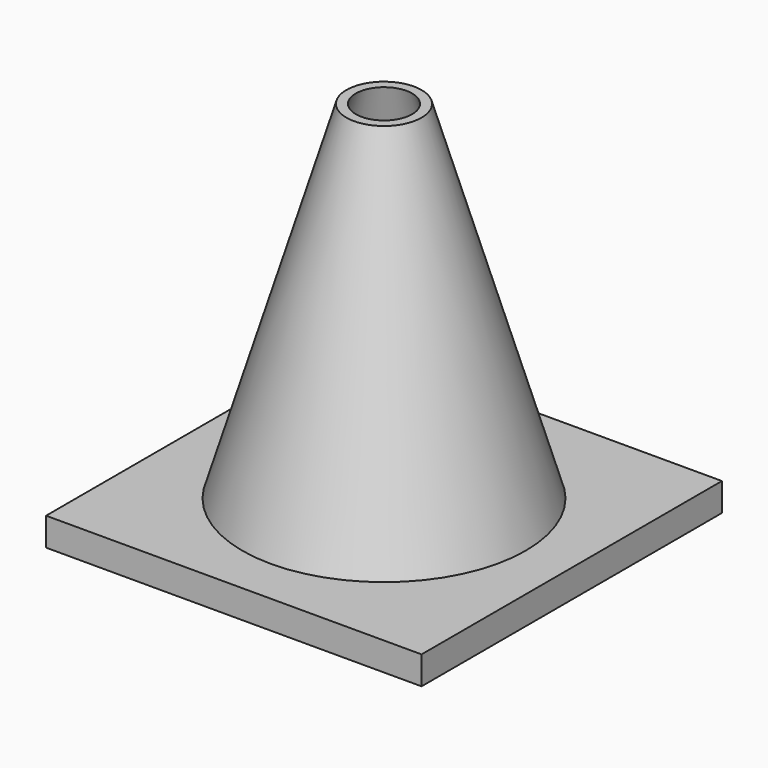
from build123d import *

# Parameters (mm, degrees)
BOX_W     = 40
BOX_H     = 40
BOX_DEPTH = 3


with BuildPart() as cono:
    # Cone001 → Cone001 (revolve)
    with BuildSketch(Plane(origin=(0, 0, -4), x_dir=(1, 0, 0), z_dir=(0, -1, 0))):
        Polygon((0, 0), (16, 0), (3, 44), (0, 44), align=None)
    revolve(axis=Axis((0, 0, -4), (0, 0, 1)))


with BuildPart() as cone:
    # Cone → Cone (revolve)
    with BuildSketch(Plane.XZ):
        Polygon((0, 0), (16, 0), (4, 40), (0, 40), align=None)
    revolve(axis=Axis((0, 0, 0), (0, 0, 1)))


with BuildPart() as cut:
    # Box → Box (new body)
    with BuildSketch(Plane(origin=(-20, -20, 0), x_dir=(1, 0, 0), z_dir=(0, 0, 1))):
        with Locations((20, 20)):
            Rectangle(BOX_W, BOX_H)
    extrude(amount=BOX_DEPTH)

    # Fusion: union Cone
    add(cone.part)

    # Cut: cut Cono
    add(cono.part, mode=Mode.SUBTRACT)


solid = cut.part
